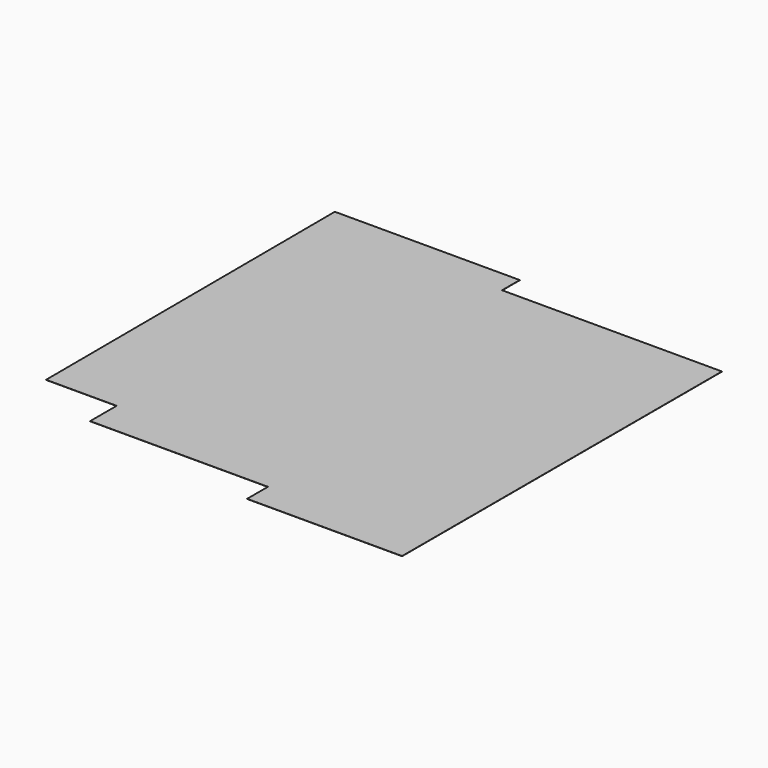
from build123d import *

# Parameters (mm, degrees)
F2_DEPTH = 5


with BuildPart() as f2:
    # F1 (on face) → F2 (new body)
    with BuildSketch(Plane.XY):
        Polygon((-15432.749671, -4484.504726), (-15392.749671, -14664.42614), (-13412.749671, -14664.42614), (-13412.749671, -15594.42614), (-8422.749671, -15594.42614), (-8422.749671, -16324.42614), (-4072.749671, -16324.42614), (-4072.749671, -5104.504726), (-10242.749671, -5104.504726), (-10242.749671, -4484.504726), align=None)
    extrude(amount=F2_DEPTH)


solid = f2.part
